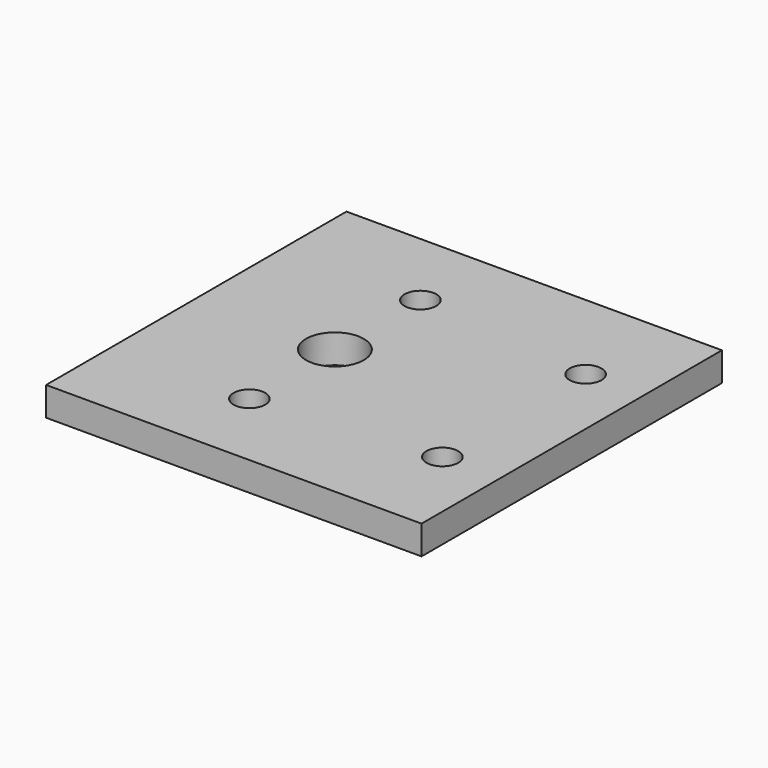
from build123d import *

# Parameters (mm, degrees)
F0_W     = 65
F0_H     = 5
F1_DEPTH = 65
F2_R     = 2.75
F2_R_2   = 5
F3_DEPTH = 5


with BuildPart() as f1:
    # F0 (on Front) → F1 (new body)
    with BuildSketch(Plane.XZ):
        with Locations((-32.5, 2.5)):
            Rectangle(F0_W, F0_H)
    extrude(amount=-F1_DEPTH)

    # F2 (on Top) → F3 (cut)
    with BuildSketch(Plane.XY):
        with Locations((-10, 48)):
            Circle(F2_R)
        with Locations((-10, 17)):
            Circle(F2_R)
        with Locations((-41, 51)):
            Circle(F2_R)
        with Locations((-41, 14)):
            Circle(F2_R)
        with Locations((-41, 32.5)):
            Circle(F2_R_2)
    extrude(amount=F3_DEPTH, mode=Mode.SUBTRACT)


solid = f1.part
